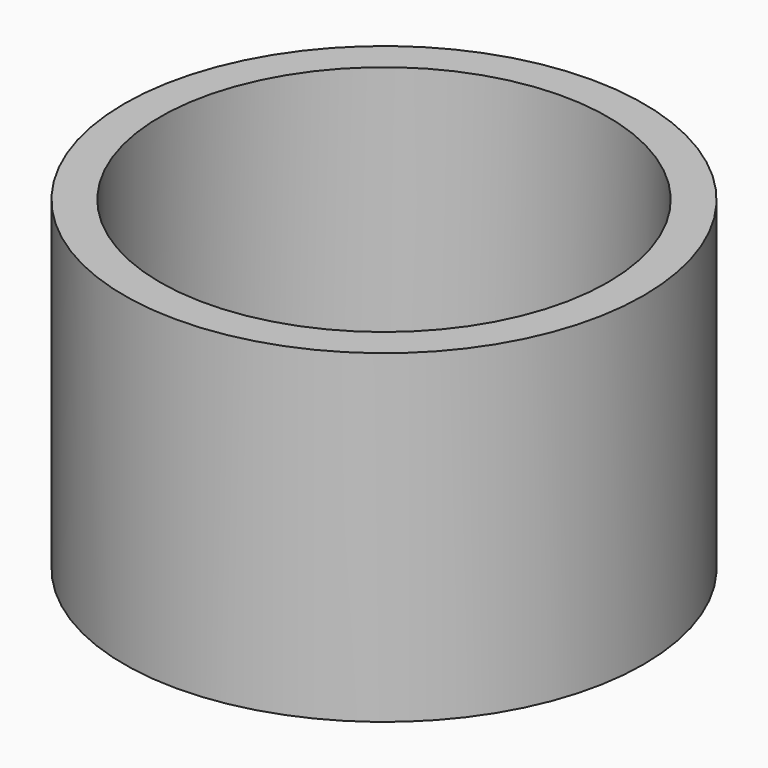
from build123d import *

# Parameters (mm, degrees)
F0_R     = 40
F0_R_2   = 34.489253
F1_DEPTH = 50
F0_R_3   = 34.42785
F2_DEPTH = 8


with BuildPart() as f1:
    # F0 (on Top) → F1 (new body)
    with BuildSketch(Plane.XY):
        Circle(F0_R)
        Circle(F0_R_2, mode=Mode.SUBTRACT)
    extrude(amount=F1_DEPTH)


with BuildPart() as f2:
    # F0 (on Top) → F2 (new body)
    with BuildSketch(Plane.XY):
        Circle(F0_R_3)
    extrude(amount=F2_DEPTH)


solid = Compound([f1.part, f2.part])
